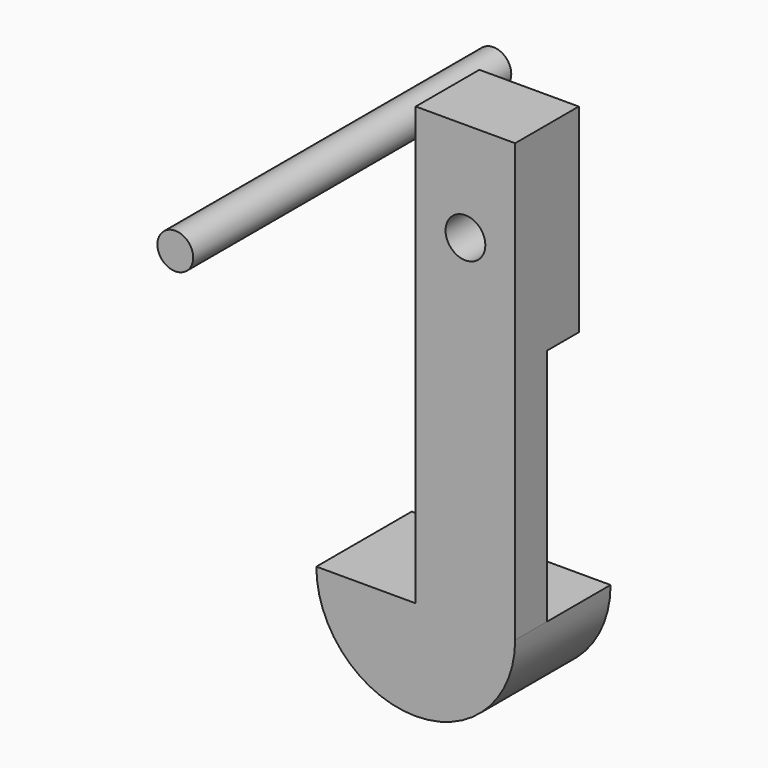
from build123d import *

# Parameters (mm, degrees)
F0_R     = 4.5
F1_DEPTH = 50
F2_W     = 25
F2_H     = 50
F3_DEPTH = 10
F4_W     = 25
F4_H     = 60
F5_DEPTH = 10
F7_DEPTH = 30
F8_R     = 5
F9_DEPTH = 60.001


with BuildPart() as f1:
    # F0 (on Front) → F1 (new body, symmetric)
    with BuildSketch(Plane.XZ):
        with Locations((-23.540846, 0)):
            Circle(F0_R)
    extrude(amount=F1_DEPTH, both=True)


with BuildPart() as f3:
    # F2 (on Front) → F3 (new body, symmetric)
    with BuildSketch(Plane.XZ):
        with Locations((17.434464, 0)):
            Rectangle(F2_W, F2_H)
    extrude(amount=F3_DEPTH, both=True)

    # F4 (on face) → F5 (join)
    with BuildSketch(Plane.XZ.offset(10)):
        with Locations((17.434464, -55)):
            Rectangle(F4_W, F4_H)
    extrude(amount=-F5_DEPTH)

    # F6 (on face) → F7 (join)
    with BuildSketch(Plane.XZ.offset(10)):
        with BuildLine():
            ThreePointArc((-20.065536, -85), (4.934464, -110), (29.934464, -85))
            Line((29.934464, -85), (4.934464, -85))
            Line((4.934464, -85), (-20.065536, -85))
        make_face()
    extrude(amount=-F7_DEPTH)

    # F8 (on face) → F9 (cut, through all)
    with BuildSketch(Plane.XZ.offset(10)):
        with Locations((17.434464, 0)):
            Circle(F8_R)
    extrude(amount=-F9_DEPTH, mode=Mode.SUBTRACT)


solid = Compound([f1.part, f3.part])
